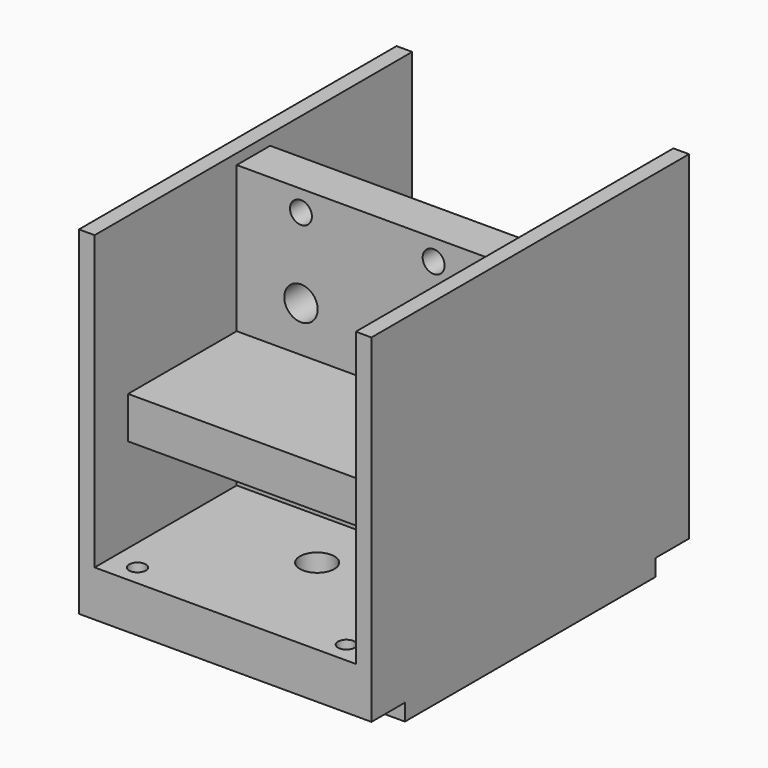
from build123d import *

# Parameters (mm, degrees)
F1_DEPTH         = 19
F2_W             = 25
F2_H             = 4
F3_DEPTH         = 15
F4_W             = 25
F4_H             = 28
F4_R             = 1.6
F4_R_2           = 2.05
F4_R_3           = 1.05
F5_DEPTH         = 2
F7_D             = 1.6
F7_DEPTH         = 6
F7_TIP           = 0.4806884952
F8_W             = 28
F8_H             = 4
F9_DEPTH         = 1.6
F10_D            = 1.6
F10_DEPTH        = 6
F10_START        = 1.6
F10_TIP          = 0.4806884952
F11_D            = 3.3
F11_DEPTH        = 6
F11_TIP          = 0.9914200214
F14_D            = 1.6
F14_DEPTH        = 3
F14_TIP          = 0.4806884952
F14_ON_F12_D     = 1.6
F14_ON_F12_DEPTH = 3
F14_ON_F12_TIP   = 0.4806884952


with BuildPart() as f1:
    # F0 (on Front) → F1 (new body, symmetric)
    with BuildSketch(Plane.XZ):
        Polygon((-14, -17), (14, -17), (14, 17), (12.5, 17), (12.5, -11), (-12.5, -11), (-12.5, 17), (-14, 17), align=None)
    extrude(amount=F1_DEPTH, both=True)

    # F8 (on face) → F9 (cut)
    with BuildSketch(Plane(origin=(0, 0, -17), x_dir=(1, 0, 0), z_dir=(0, 0, -1))):
        with Locations((0, -17)):
            Rectangle(F8_W, F8_H)
        with Locations((0, 17)):
            Rectangle(F8_W, F8_H)
    extrude(amount=-F9_DEPTH, mode=Mode.SUBTRACT)

    # F10
    # its depths count from where the whole tool has entered the part; down to there all is cleared
    with Locations(Plane(origin=(0, 0, -17), x_dir=(1, 0, 0), z_dir=(0, 0, -1)).offset(-F10_START)):
        with Locations((-10, -17), (10, -17), (-10, 17), (10, 17)):
            Hole(F10_D / 2, depth=F10_DEPTH)
            with Locations((0, 0, -(F10_DEPTH + F10_TIP / 2))):  # 118° drill point
                Cone(0, F10_D / 2, F10_TIP, mode=Mode.SUBTRACT)

    # F11
    with Locations(Plane(origin=(0, 0, -17), x_dir=(1, 0, 0), z_dir=(0, 0, -1))):
        with Locations((0, -8), (0, 8)):
            Hole(F11_D / 2, depth=F11_DEPTH)
            with Locations((0, 0, -(F11_DEPTH + F11_TIP / 2))):  # 118° drill point
                Cone(0, F11_D / 2, F11_TIP, mode=Mode.SUBTRACT)


with BuildPart() as f3:
    # F2 (on Front) → F3 (new body, symmetric)
    with BuildSketch(Plane.XZ):
        Rectangle(F2_W, F2_H)
    extrude(amount=F3_DEPTH, both=True)

    # F14
    with Locations(Plane.YZ.offset(12.5)):
        with Locations((-10, 0), (10, 0)):
            Hole(F14_D / 2, depth=F14_DEPTH)
            with Locations((0, 0, -(F14_DEPTH + F14_TIP / 2))):  # 118° drill point
                Cone(0, F14_D / 2, F14_TIP, mode=Mode.SUBTRACT)

    # F14 on F12
    with Locations(Plane(origin=(-12.5, 0, 0), x_dir=(0, -1, 0), z_dir=(-1, 0, 0))):
        with Locations((-10, 0), (10, 0)):
            Hole(F14_ON_F12_D / 2, depth=F14_ON_F12_DEPTH)
            with Locations((0, 0, -(F14_ON_F12_DEPTH + F14_ON_F12_TIP / 2))):  # 118° drill point
                Cone(0, F14_ON_F12_D / 2, F14_ON_F12_TIP, mode=Mode.SUBTRACT)


with BuildPart() as f5:
    # F4 (on Front) → F5 (new body, symmetric)
    with BuildSketch(Plane.XZ):
        with Locations((0, 2)):
            Rectangle(F4_W, F4_H)
        with Locations((-6.35, -6.35)):
            Circle(F4_R, mode=Mode.SUBTRACT)
        with Locations((6.35, -6.35)):
            Circle(F4_R, mode=Mode.SUBTRACT)
        Circle(F4_R_2, mode=Mode.SUBTRACT)
        with Locations((-6.35, 6.35)):
            Circle(F4_R, mode=Mode.SUBTRACT)
        with Locations((-6.35, 14)):
            Circle(F4_R_3, mode=Mode.SUBTRACT)
        with Locations((6.35, 6.35)):
            Circle(F4_R, mode=Mode.SUBTRACT)
        with Locations((6.35, 14)):
            Circle(F4_R_3, mode=Mode.SUBTRACT)
    extrude(amount=F5_DEPTH, both=True)

    # F7
    with Locations(Plane(origin=(0, 0, -12), x_dir=(1, 0, 0), z_dir=(0, 0, -1))):
        with Locations((-10, 0), (10, 0)):
            Hole(F7_D / 2, depth=F7_DEPTH)
            with Locations((0, 0, -(F7_DEPTH + F7_TIP / 2))):  # 118° drill point
                Cone(0, F7_D / 2, F7_TIP, mode=Mode.SUBTRACT)


solid = Compound([f1.part, f3.part, f5.part])
